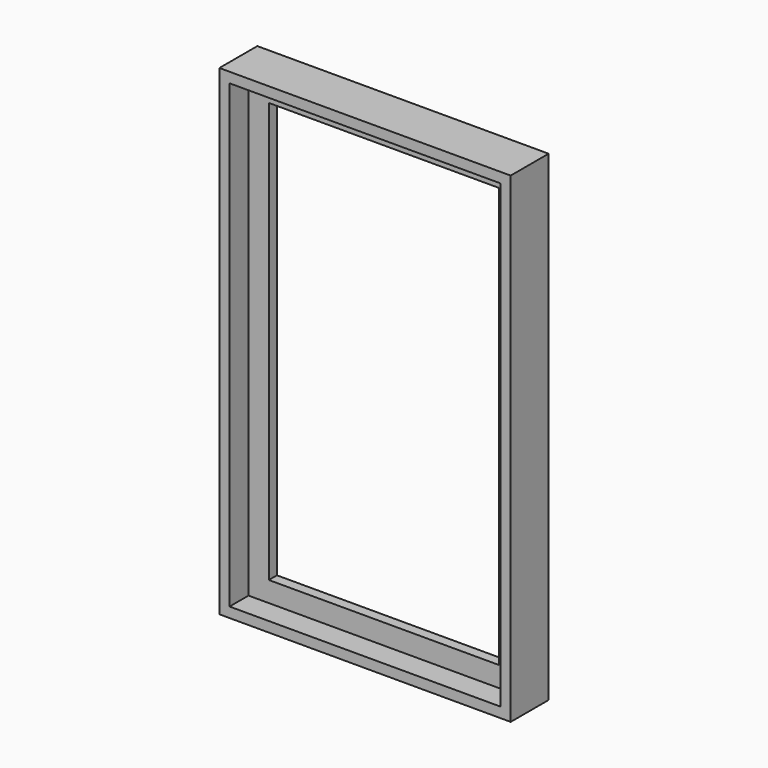
from build123d import *

# Parameters (mm, degrees)
F1_DEPTH = 88.9
F2_START = 25.4
F2_DEPTH = 19.05


with BuildPart() as f1:
    # F0 (on Front) → F1 (new body)
    with BuildSketch(Plane.XZ):
        Polygon((-284.0362622675, 569.4989632036), (-303.0862622675, 588.5489632036), (-303.0862622675, -313.1510367964), (-284.0362622675, -294.1010367964), align=None)
        Polygon((243.0137377325, 588.5489632036), (-303.0862622675, 588.5489632036), (-284.0362622675, 569.4989632036), (223.9637377325, 569.4989632036), align=None)
        Polygon((-284.0362622675, -294.1010367964), (-303.0862622675, -313.1510367964), (243.0137377325, -313.1510367964), (223.9637377325, -294.1010367964), align=None)
        Polygon((243.0137377325, -313.1510367964), (243.0137377325, 588.5489632036), (223.9637377325, 569.4989632036), (223.9637377325, -294.1010367964), align=None)
    extrude(amount=F1_DEPTH)

    # F0 (on Front) → F2 (join)
    with BuildSketch(Plane.XZ.offset(F2_START)):
        Polygon((223.9637377325, 569.4989632036), (-284.0362622675, 569.4989632036), (-245.9362622675, 531.3989632036), (185.8637377325, 531.3989632036), align=None)
        Polygon((-245.9362622675, 531.3989632036), (-284.0362622675, 569.4989632036), (-284.0362622675, -294.1010367964), (-245.9362622675, -256.0010367964), align=None)
        Polygon((223.9637377325, -294.1010367964), (223.9637377325, 569.4989632036), (185.8637377325, 531.3989632036), (185.8637377325, -256.0010367964), align=None)
        Polygon((-245.9362622675, -256.0010367964), (-284.0362622675, -294.1010367964), (223.9637377325, -294.1010367964), (185.8637377325, -256.0010367964), align=None)
    extrude(amount=F2_DEPTH)


solid = f1.part
